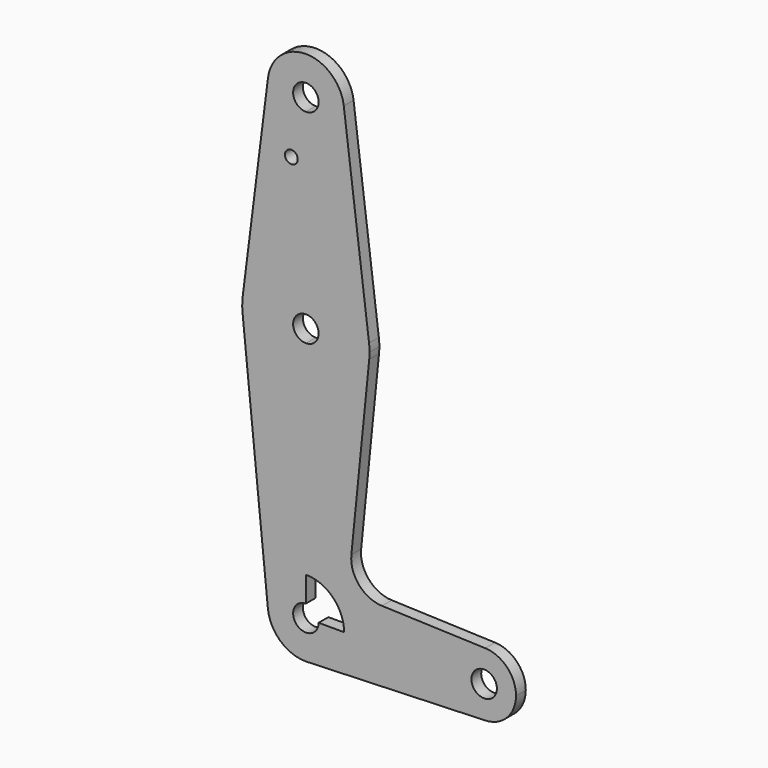
from build123d import *

# Parameters (mm, degrees)
F0_R     = 1.5875
F1_DEPTH = 3.048
F2_DEPTH = 3.048


with BuildPart() as f1:
    # F0 (on Front) → F1 (new body)
    with BuildSketch(Plane.XZ):
        with BuildLine():
            ThreePointArc((3.175, 114.3), (-2.245064, 116.545064), (0, 111.125))
            ThreePointArc((0, 111.125), (2.245064, 112.054936), (3.175, 114.3))
        make_face()
        with BuildLine():
            ThreePointArc((0, 104.775), (6.735192, 107.564808), (9.525, 114.3))
            ThreePointArc((9.525, 114.3), (9.506305, 114.896483), (9.450293, 115.490625))
            ThreePointArc((9.450293, 115.490625), (0, 123.825), (-9.450293, 115.490625))
            ThreePointArc((-9.450293, 115.490625), (-7.14375, 107.999805), (0, 104.775))
        make_face()
        with BuildLine():
            ThreePointArc((3.175, 114.3), (2.245064, 112.054936), (0, 111.125))
            ThreePointArc((0, 111.125), (-2.245064, 116.545064), (3.175, 114.3))
        make_face(mode=Mode.SUBTRACT)
        with BuildLine():
            ThreePointArc((9.450293, 115.490625), (9.506305, 114.896483), (9.525, 114.3))
            ThreePointArc((9.525, 114.3), (6.735192, 107.564808), (0, 104.775))
            Line((0, 104.775), (0, 79.375))
            ThreePointArc((0, 79.375), (3.877409, 78.894198), (7.51995, 77.480915))
            ThreePointArc((7.51995, 77.480915), (13.090362, 72.480983), (15.750488, 65.484375))
            Line((15.750488, 65.484375), (9.450293, 115.490625))
        make_face()
        with BuildLine():
            Line((0, 79.375), (0, 104.775))
            ThreePointArc((0, 104.775), (-7.14375, 107.999805), (-9.450293, 115.490625))
            Line((-9.450293, 115.490625), (-15.750488, 65.484375))
            ThreePointArc((-15.750488, 65.484375), (-10.500326, 75.40625), (0, 79.375))
        make_face()
        with Locations((-3.621143, 100.0252)):
            Circle(F0_R, mode=Mode.SUBTRACT)
        with BuildLine():
            ThreePointArc((15.875, 63.5), (15.843841, 64.494139), (15.750488, 65.484375))
            ThreePointArc((15.750488, 65.484375), (13.090362, 72.480983), (7.51995, 77.480915))
            ThreePointArc((7.51995, 77.480915), (3.877409, 78.894198), (0, 79.375))
            Line((0, 79.375), (0, 66.675))
            ThreePointArc((0, 66.675), (2.245064, 65.745064), (3.175, 63.5))
            ThreePointArc((3.175, 63.5), (2.245064, 61.254936), (0, 60.325))
            Line((0, 60.325), (0, 47.625))
            ThreePointArc((0, 47.625), (10.649274, 51.726785), (15.795426, 61.9125))
            ThreePointArc((15.795426, 61.9125), (15.855094, 62.705253), (15.875, 63.5))
        make_face()
        with BuildLine():
            Line((0, 66.675), (0, 79.375))
            ThreePointArc((0, 79.375), (-10.500326, 75.40625), (-15.750488, 65.484375))
            ThreePointArc((-15.750488, 65.484375), (-15.873744, 63.699705), (-15.795426, 61.9125))
            ThreePointArc((-15.795426, 61.9125), (-10.649274, 51.726785), (0, 47.625))
            Line((0, 47.625), (0, 60.325))
            ThreePointArc((0, 60.325), (-3.175, 63.5), (0, 66.675))
        make_face()
        with BuildLine():
            ThreePointArc((0, 47.625), (-10.649274, 51.726785), (-15.795426, 61.9125))
            Line((-15.795426, 61.9125), (-9.477255, -0.9525))
            ThreePointArc((-9.477255, -0.9525), (-7.063929, 6.389564), (0, 9.525))
            Line((0, 9.525), (0, 47.625))
        make_face()
        with BuildLine():
            Line((11.341187, 17.593382), (15.795426, 61.9125))
            ThreePointArc((15.795426, 61.9125), (10.649274, 51.726785), (0, 47.625))
            Line((0, 47.625), (0, 9.525))
            ThreePointArc((0, 9.525), (6.735192, 6.735192), (9.525, 0))
            Line((9.525, 0), (36.5125, 0))
            ThreePointArc((36.5125, 0), (38.938477, 5.712007), (44.733482, 7.932436))
            Line((44.733482, 7.932436), (18.9676, 8.853234))
            ThreePointArc((18.9676, 8.853234), (13.2612, 11.571359), (11.341187, 17.593382))
        make_face()
        with BuildLine():
            ThreePointArc((0, 9.525), (-7.063929, 6.389564), (-9.477255, -0.9525))
            ThreePointArc((-9.477255, -0.9525), (-6.389564, -7.063929), (0, -9.525))
            Line((0, -9.525), (0.677344, -9.500886))
            ThreePointArc((0.677344, -9.500886), (6.970557, -6.491299), (9.525, 0))
            Line((9.525, 0), (3.175, 0))
            ThreePointArc((3.175, 0), (-2.245064, -2.245064), (0, 3.175))
            Line((0, 3.175), (0, 9.525))
        make_face()
        with BuildLine():
            Line((0.677344, -9.500886), (0, -9.525))
            ThreePointArc((0, -9.525), (0.338886, -9.51897), (0.677344, -9.500886))
        make_face()
        with BuildLine():
            Line((36.5125, 0), (9.525, 0))
            ThreePointArc((9.525, 0), (6.970557, -6.491299), (0.677344, -9.500886))
            Line((0.677344, -9.500886), (44.732405, -7.932475))
            ThreePointArc((44.732405, -7.932475), (38.93809, -5.711633), (36.5125, 0))
        make_face()
        with BuildLine():
            ThreePointArc((47.625, 0), (44.45, 3.175), (41.275, 0))
            ThreePointArc((41.275, 0), (44.45, -3.175), (47.625, 0))
        make_face()
        with BuildLine():
            ThreePointArc((52.3875, 0), (50.162007, 5.511523), (44.733482, 7.932436))
            ThreePointArc((44.733482, 7.932436), (38.938477, 5.712007), (36.5125, 0))
            ThreePointArc((36.5125, 0), (38.93809, -5.711633), (44.732405, -7.932475))
            ThreePointArc((44.732405, -7.932475), (50.161633, -5.51191), (52.3875, 0))
        make_face()
        with BuildLine():
            ThreePointArc((47.625, 0), (44.45, -3.175), (41.275, 0))
            ThreePointArc((41.275, 0), (44.45, 3.175), (47.625, 0))
        make_face(mode=Mode.SUBTRACT)
    extrude(amount=F1_DEPTH)

    # F0 (on Front) → F2 (join)
    with BuildSketch(Plane.XZ):
        with BuildLine():
            ThreePointArc((3.175, 114.3), (-2.245064, 116.545064), (0, 111.125))
            ThreePointArc((0, 111.125), (2.245064, 112.054936), (3.175, 114.3))
        make_face()
        with BuildLine():
            ThreePointArc((0, 104.775), (6.735192, 107.564808), (9.525, 114.3))
            ThreePointArc((9.525, 114.3), (9.506305, 114.896483), (9.450293, 115.490625))
            ThreePointArc((9.450293, 115.490625), (0, 123.825), (-9.450293, 115.490625))
            ThreePointArc((-9.450293, 115.490625), (-7.14375, 107.999805), (0, 104.775))
        make_face()
        with BuildLine():
            ThreePointArc((3.175, 114.3), (2.245064, 112.054936), (0, 111.125))
            ThreePointArc((0, 111.125), (-2.245064, 116.545064), (3.175, 114.3))
        make_face(mode=Mode.SUBTRACT)
        with BuildLine():
            ThreePointArc((9.450293, 115.490625), (9.506305, 114.896483), (9.525, 114.3))
            ThreePointArc((9.525, 114.3), (6.735192, 107.564808), (0, 104.775))
            Line((0, 104.775), (0, 79.375))
            ThreePointArc((0, 79.375), (3.877409, 78.894198), (7.51995, 77.480915))
            ThreePointArc((7.51995, 77.480915), (13.090362, 72.480983), (15.750488, 65.484375))
            Line((15.750488, 65.484375), (9.450293, 115.490625))
        make_face()
        with BuildLine():
            Line((0, 79.375), (0, 104.775))
            ThreePointArc((0, 104.775), (-7.14375, 107.999805), (-9.450293, 115.490625))
            Line((-9.450293, 115.490625), (-15.750488, 65.484375))
            ThreePointArc((-15.750488, 65.484375), (-10.500326, 75.40625), (0, 79.375))
        make_face()
        with Locations((-3.621143, 100.0252)):
            Circle(F0_R, mode=Mode.SUBTRACT)
        with BuildLine():
            ThreePointArc((15.875, 63.5), (15.843841, 64.494139), (15.750488, 65.484375))
            ThreePointArc((15.750488, 65.484375), (13.090362, 72.480983), (7.51995, 77.480915))
            ThreePointArc((7.51995, 77.480915), (3.877409, 78.894198), (0, 79.375))
            Line((0, 79.375), (0, 66.675))
            ThreePointArc((0, 66.675), (2.245064, 65.745064), (3.175, 63.5))
            ThreePointArc((3.175, 63.5), (2.245064, 61.254936), (0, 60.325))
            Line((0, 60.325), (0, 47.625))
            ThreePointArc((0, 47.625), (10.649274, 51.726785), (15.795426, 61.9125))
            ThreePointArc((15.795426, 61.9125), (15.855094, 62.705253), (15.875, 63.5))
        make_face()
        with BuildLine():
            Line((0, 66.675), (0, 79.375))
            ThreePointArc((0, 79.375), (-10.500326, 75.40625), (-15.750488, 65.484375))
            ThreePointArc((-15.750488, 65.484375), (-15.873744, 63.699705), (-15.795426, 61.9125))
            ThreePointArc((-15.795426, 61.9125), (-10.649274, 51.726785), (0, 47.625))
            Line((0, 47.625), (0, 60.325))
            ThreePointArc((0, 60.325), (-3.175, 63.5), (0, 66.675))
        make_face()
        with BuildLine():
            ThreePointArc((0, 47.625), (-10.649274, 51.726785), (-15.795426, 61.9125))
            Line((-15.795426, 61.9125), (-9.477255, -0.9525))
            ThreePointArc((-9.477255, -0.9525), (-7.063929, 6.389564), (0, 9.525))
            Line((0, 9.525), (0, 47.625))
        make_face()
        with BuildLine():
            Line((11.341187, 17.593382), (15.795426, 61.9125))
            ThreePointArc((15.795426, 61.9125), (10.649274, 51.726785), (0, 47.625))
            Line((0, 47.625), (0, 9.525))
            ThreePointArc((0, 9.525), (6.735192, 6.735192), (9.525, 0))
            Line((9.525, 0), (36.5125, 0))
            ThreePointArc((36.5125, 0), (38.938477, 5.712007), (44.733482, 7.932436))
            Line((44.733482, 7.932436), (18.9676, 8.853234))
            ThreePointArc((18.9676, 8.853234), (13.2612, 11.571359), (11.341187, 17.593382))
        make_face()
        with BuildLine():
            ThreePointArc((0, 9.525), (-7.063929, 6.389564), (-9.477255, -0.9525))
            ThreePointArc((-9.477255, -0.9525), (-6.389564, -7.063929), (0, -9.525))
            Line((0, -9.525), (0.677344, -9.500886))
            ThreePointArc((0.677344, -9.500886), (6.970557, -6.491299), (9.525, 0))
            Line((9.525, 0), (3.175, 0))
            ThreePointArc((3.175, 0), (-2.245064, -2.245064), (0, 3.175))
            Line((0, 3.175), (0, 9.525))
        make_face()
        with BuildLine():
            Line((0.677344, -9.500886), (0, -9.525))
            ThreePointArc((0, -9.525), (0.338886, -9.51897), (0.677344, -9.500886))
        make_face()
        with BuildLine():
            Line((36.5125, 0), (9.525, 0))
            ThreePointArc((9.525, 0), (6.970557, -6.491299), (0.677344, -9.500886))
            Line((0.677344, -9.500886), (44.732405, -7.932475))
            ThreePointArc((44.732405, -7.932475), (38.93809, -5.711633), (36.5125, 0))
        make_face()
        with BuildLine():
            ThreePointArc((47.625, 0), (44.45, 3.175), (41.275, 0))
            ThreePointArc((41.275, 0), (44.45, -3.175), (47.625, 0))
        make_face()
        with BuildLine():
            ThreePointArc((52.3875, 0), (50.162007, 5.511523), (44.733482, 7.932436))
            ThreePointArc((44.733482, 7.932436), (38.938477, 5.712007), (36.5125, 0))
            ThreePointArc((36.5125, 0), (38.93809, -5.711633), (44.732405, -7.932475))
            ThreePointArc((44.732405, -7.932475), (50.161633, -5.51191), (52.3875, 0))
        make_face()
        with BuildLine():
            ThreePointArc((47.625, 0), (44.45, -3.175), (41.275, 0))
            ThreePointArc((41.275, 0), (44.45, 3.175), (47.625, 0))
        make_face(mode=Mode.SUBTRACT)
    extrude(amount=F2_DEPTH)


solid = f1.part
